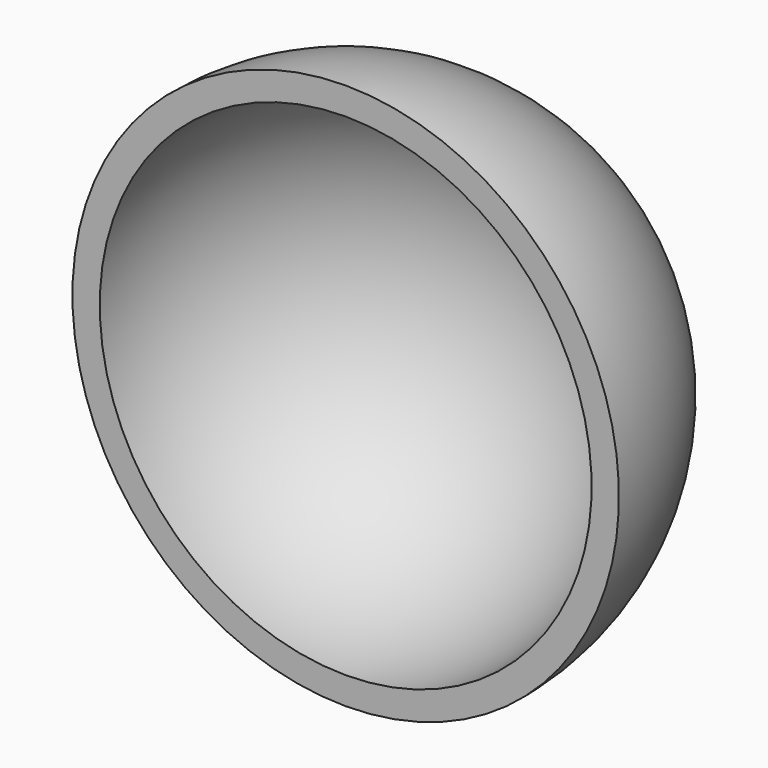
from build123d import *

# Parameters (mm, degrees)
F1_ANGLE = 180
F2_T     = -2.54


with BuildPart() as f1:
    # F0 (on Front) → F1 (revolve)
    with BuildSketch(Plane.XZ):
        with BuildLine():
            Line((0, 25.4), (0, -25.4))
            ThreePointArc((0, -25.4), (25.4, 0), (0, 25.4))
        make_face()
    revolve(axis=Axis((0, 0, 35.045028), (0, 0, 1)), revolution_arc=F1_ANGLE)

    # F2
    f2_openings = [f1.faces().sort_by_distance(p)[0] for p in [
        (0, 0, 0),
    ]]
    offset(amount=F2_T, openings=f2_openings)


solid = f1.part
